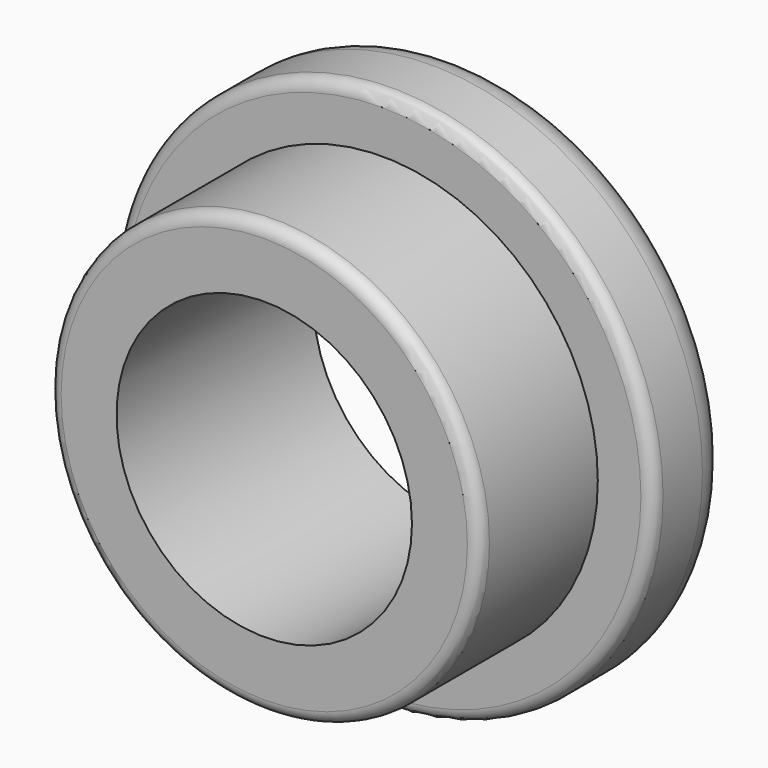
from build123d import *

# Parameters (mm, degrees)
F0_R     = 22
F0_R_2   = 17.5
F0_R_3   = 12
F1_DEPTH = 8
F2_DEPTH = 20
F3_R     = 3
F4_R     = 1
F5_R     = 1


with BuildPart() as f1:
    # F0 (on Front) → F1 (new body)
    with BuildSketch(Plane.XZ):
        Circle(F0_R)
        Circle(F0_R_2, mode=Mode.SUBTRACT)
        Circle(F0_R_2)
        Circle(F0_R_3, mode=Mode.SUBTRACT)
    extrude(amount=F1_DEPTH)

    # F0 (on Front) → F2 (join)
    with BuildSketch(Plane.XZ):
        Circle(F0_R_2)
        Circle(F0_R_3, mode=Mode.SUBTRACT)
    extrude(amount=F2_DEPTH)

    # F3
    f3_edges = [f1.edges().sort_by_distance(p)[0] for p in [
        (-22, 0, 0),
    ]]
    fillet(f3_edges, radius=F3_R)

    # F4
    f4_edges = [f1.edges().sort_by_distance(p)[0] for p in [
        (-22, -8, 0),
    ]]
    fillet(f4_edges, radius=F4_R)

    # F5
    f5_edges = [f1.edges().sort_by_distance(p)[0] for p in [
        (-17.5, -20, 0),
    ]]
    fillet(f5_edges, radius=F5_R)


solid = f1.part
